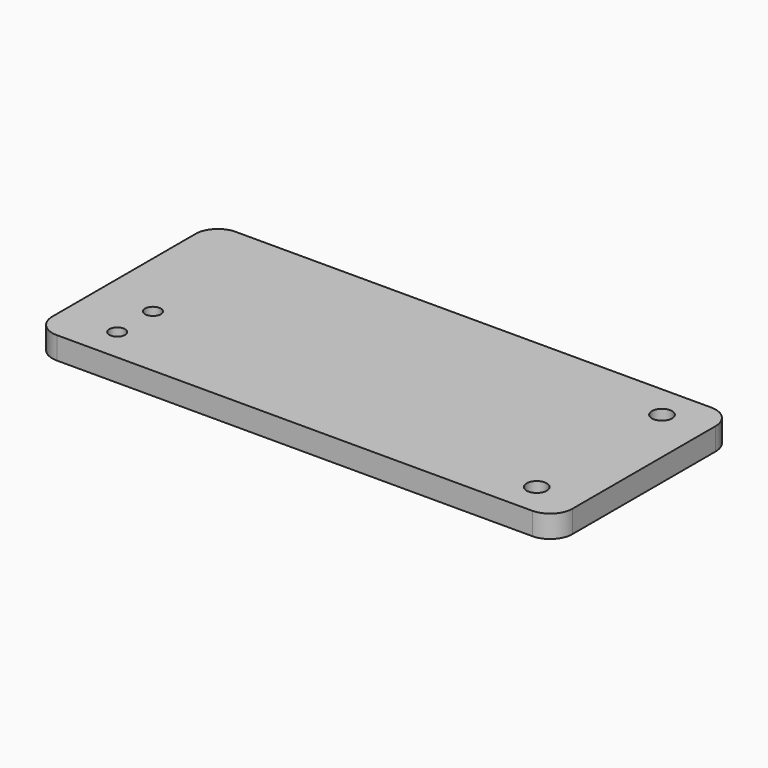
from build123d import *

# Parameters (mm, degrees)
F0_W     = 116.28
F0_H     = 50
F0_R     = 1.75
F0_R_2   = 2.25
F1_DEPTH = 2.5
F2_R     = 5


with BuildPart() as f1:
    # F0 (on Top) → F1 (new body, symmetric)
    with BuildSketch(Plane.XY):
        Rectangle(F0_W, F0_H)
        with Locations((-45.64, -17.5)):
            Circle(F0_R, mode=Mode.SUBTRACT)
        with Locations((-45.64, -7.5)):
            Circle(F0_R, mode=Mode.SUBTRACT)
        with Locations((48.14, -17.5)):
            Circle(F0_R_2, mode=Mode.SUBTRACT)
        with Locations((48.14, 17.5)):
            Circle(F0_R_2, mode=Mode.SUBTRACT)
    extrude(amount=F1_DEPTH, both=True)

    # F2
    f2_edges = [f1.edges().sort_by_distance(p)[0] for p in [
        (-58.14, -25, 0),
        (58.14, -25, 0),
        (58.14, 25, 0),
        (-58.14, 25, 0),
    ]]
    fillet(f2_edges, radius=F2_R)


solid = f1.part
